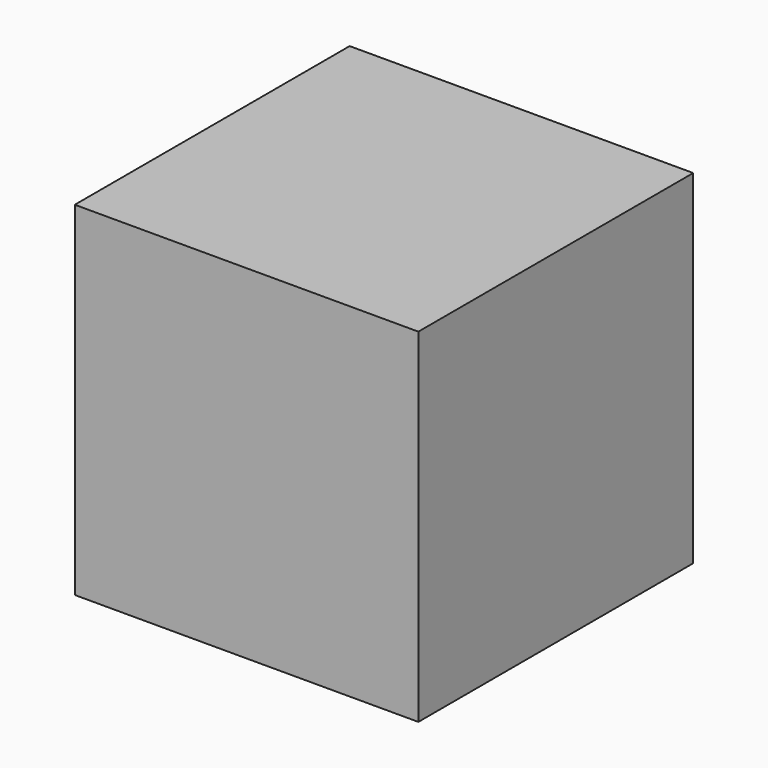
from build123d import *

# Parameters (mm, degrees)
BOX_W     = 169
BOX_H     = 169
BOX_DEPTH = 169


with BuildPart() as part:
    # Box → Box (new body)
    with BuildSketch(Plane.XY):
        with Locations((84.5, 84.5)):
            Rectangle(BOX_W, BOX_H)
    extrude(amount=BOX_DEPTH)


solid = part.part
